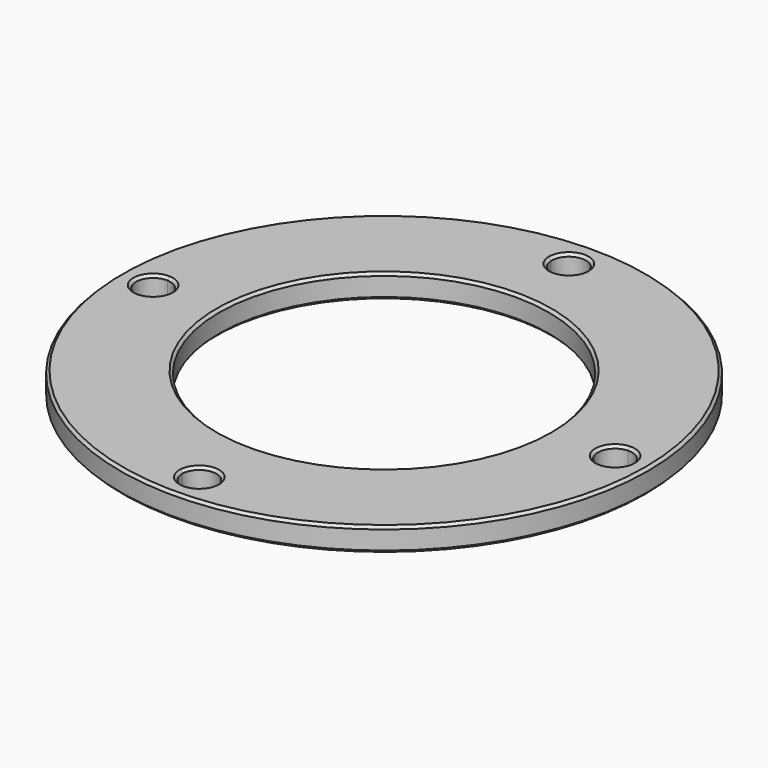
from build123d import *

# Parameters (mm, degrees)
F0_R     = 25.4
F0_R_2   = 15.875
F1_DEPTH = 2.286
F2_SIZE  = 0.254


with BuildPart() as f1:
    # F0 (on Top) → F1 (new body)
    with BuildSketch(Plane.XY):
        Circle(F0_R)
        with BuildLine():
            ThreePointArc((1.649861, 22.163677), (15.715448, 15.715448), (22.163677, 1.649861))
            ThreePointArc((22.163677, 1.649861), (23.370547, 1.188917), (23.876, 0))
            ThreePointArc((23.876, 0), (23.370547, -1.188917), (22.163677, -1.649861))
            ThreePointArc((22.163677, -1.649861), (15.715448, -15.715448), (1.649861, -22.163677))
            ThreePointArc((1.649861, -22.163677), (1.650715, -22.194333), (1.651, -22.225))
            ThreePointArc((1.651, -22.225), (-0.030667, -23.875715), (-1.649861, -22.163677))
            ThreePointArc((-1.649861, -22.163677), (-15.715448, -15.715448), (-22.163677, -1.649861))
            ThreePointArc((-22.163677, -1.649861), (-23.876, 0), (-22.163677, 1.649861))
            ThreePointArc((-22.163677, 1.649861), (-15.715448, 15.715448), (-1.649861, 22.163677))
            ThreePointArc((-1.649861, 22.163677), (-0.030667, 23.875715), (1.651, 22.225))
            ThreePointArc((1.651, 22.225), (1.650715, 22.194333), (1.649861, 22.163677))
        make_face(mode=Mode.SUBTRACT)
        with BuildLine():
            ThreePointArc((22.163677, -1.649861), (20.574, 0), (22.163677, 1.649861))
            ThreePointArc((22.163677, 1.649861), (15.715448, 15.715448), (1.649861, 22.163677))
            ThreePointArc((1.649861, 22.163677), (0, 20.574), (-1.649861, 22.163677))
            ThreePointArc((-1.649861, 22.163677), (-15.715448, 15.715448), (-22.163677, 1.649861))
            ThreePointArc((-22.163677, 1.649861), (-21.036083, 1.145547), (-20.574, 0))
            ThreePointArc((-20.574, 0), (-21.036083, -1.145547), (-22.163677, -1.649861))
            ThreePointArc((-22.163677, -1.649861), (-15.715448, -15.715448), (-1.649861, -22.163677))
            ThreePointArc((-1.649861, -22.163677), (0, -20.574), (1.649861, -22.163677))
            ThreePointArc((1.649861, -22.163677), (15.715448, -15.715448), (22.163677, -1.649861))
        make_face()
        Circle(F0_R_2, mode=Mode.SUBTRACT)
    extrude(amount=F1_DEPTH)

    # F2
    f2_edges = [f1.edges().sort_by_distance(p)[0] for p in [
        (-25.4, 0, 0),
        (-25.4, 0, 2.286),
        (-15.875, 0, 2.286),
        (-15.875, 0, 0),
        (-22.286323, -1.649861, 0),
        (-22.163677, 1.649861, 1.143),
        (-22.286323, -1.649861, 2.286),
        (-1.649861, -22.163677, 1.143),
        (1.649861, -22.286323, 0),
        (1.649861, -22.286323, 2.286),
        (22.163677, -1.649861, 1.143),
        (22.286323, 1.649861, 0),
        (22.286323, 1.649861, 2.286),
        (1.651, 22.225, 1.143),
        (-1.651, 22.225, 0),
        (-1.651, 22.225, 2.286),
    ]]
    chamfer(f2_edges, length=F2_SIZE)


solid = f1.part
